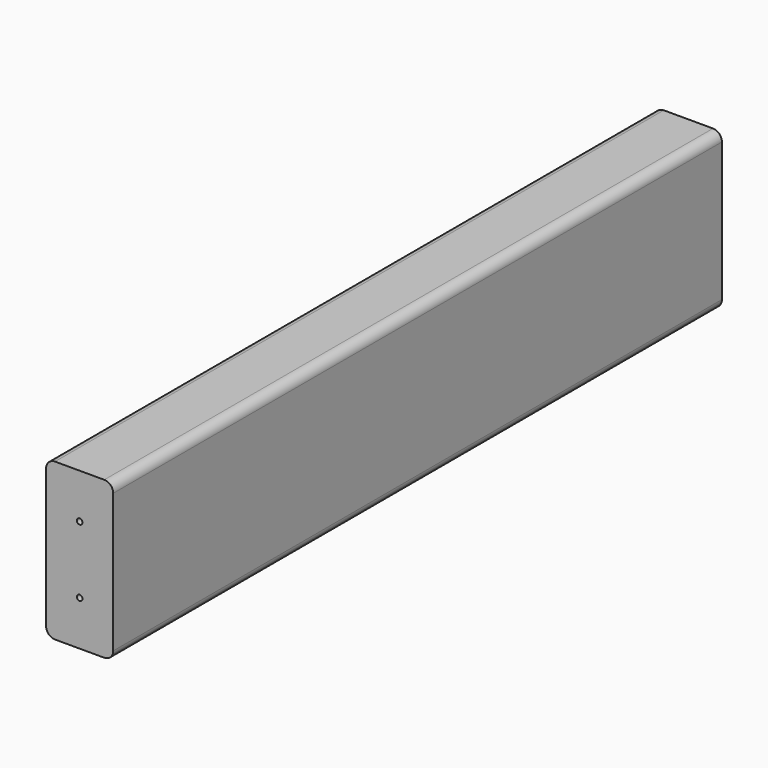
from build123d import *

# Parameters (mm, degrees)
F0_W      = 38.1
F0_H      = 88.9
F1_DEPTH  = 215.9
F2_R      = 5.08
F4_R      = 1.5875
F5_DEPTH  = 38.1
F6_R      = 1.5875
F7_DEPTH  = 38.1
F8_R      = 1.5875
F9_DEPTH  = 38.1
F10_R     = 1.5875
F11_DEPTH = 38.1


with BuildPart() as f1:
    # F0 (on Front) → F1 (new body, symmetric)
    with BuildSketch(Plane.XZ):
        Rectangle(F0_W, F0_H)
    extrude(amount=F1_DEPTH, both=True)

    # F2
    f2_edges = [f1.edges().sort_by_distance(p)[0] for p in [
        (19.05, 0, 44.45),
        (-19.05, 0, 44.45),
        (19.05, 0, -44.45),
        (-19.05, 0, -44.45),
    ]]
    fillet(f2_edges, radius=F2_R)

    # F4 (on face) → F5 (cut)
    with BuildSketch(Plane.XZ.offset(215.9)):
        with Locations((0, 19.05)):
            Circle(F4_R)
    extrude(amount=-F5_DEPTH, mode=Mode.SUBTRACT)

    # F6 (on face) → F7 (cut)
    with BuildSketch(Plane.XZ.offset(215.9)):
        with Locations((0, -19.05)):
            Circle(F6_R)
    extrude(amount=-F7_DEPTH, mode=Mode.SUBTRACT)

    # F8 (on face) → F9 (cut)
    with BuildSketch(Plane(origin=(0, 215.9, 0), x_dir=(-1, 0, 0), z_dir=(0, 1, 0))):
        with Locations((0, 19.05)):
            Circle(F8_R)
    extrude(amount=-F9_DEPTH, mode=Mode.SUBTRACT)

    # F10 (on face) → F11 (cut)
    with BuildSketch(Plane(origin=(0, 215.9, 0), x_dir=(-1, 0, 0), z_dir=(0, 1, 0))):
        with Locations((0, -19.05)):
            Circle(F10_R)
    extrude(amount=-F11_DEPTH, mode=Mode.SUBTRACT)


solid = f1.part
